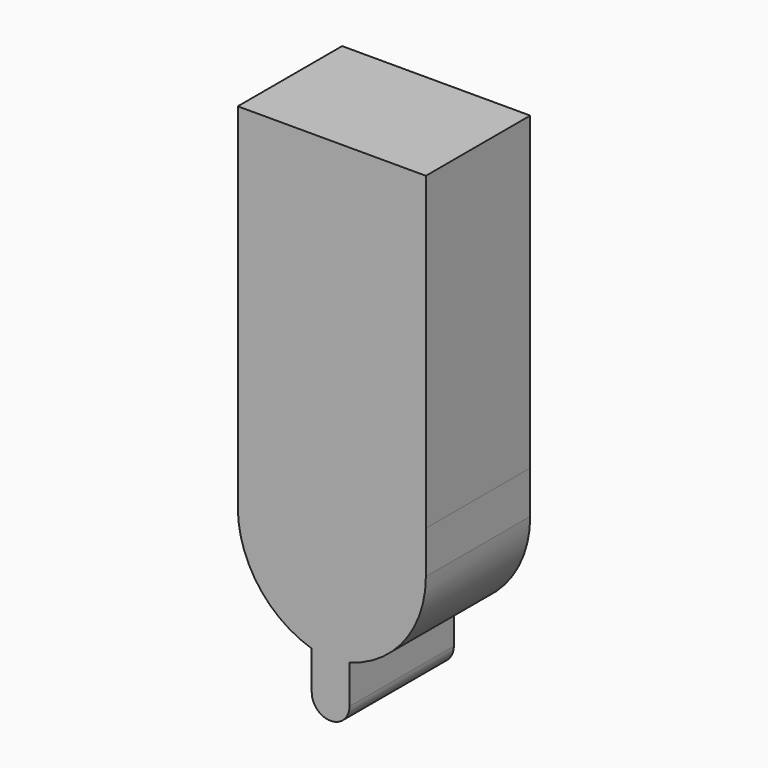
from build123d import *

# Parameters (mm, degrees)
F0_W     = 36.638629
F0_H     = 17.849587
F0_H_2   = 21.920551
F0_H_3   = 20.667945
F1_DEPTH = 25.4


with BuildPart() as f1:
    # F0 (on Front) → F1 (new body)
    with BuildSketch(Plane.XZ):
        with Locations((-3.444659, 59.811782)):
            Rectangle(F0_W, F0_H)
        with Locations((-3.444659, 39.926713)):
            Rectangle(F0_W, F0_H_2)
        with Locations((-3.444659, 18.632465)):
            Rectangle(F0_W, F0_H_3)
        with BuildLine():
            Line((14.874656, 8.298493), (-21.763973, 8.298493))
            Line((-21.763973, 8.298493), (-21.763973, 0))
            ThreePointArc((-21.763973, 0), (-17.774526, -12.150742), (-7.359041, -19.571919))
            Line((-7.359041, -19.571919), (-7.359041, -27.087534))
            Line((-7.359041, -27.087534), (0, -27.087534))
            Line((0, -27.087534), (0, -19.571919))
            ThreePointArc((0, -19.571919), (10.733979, -12.291414), (14.874656, 0))
            Line((14.874656, 0), (14.874656, 8.298493))
        make_face()
        with BuildLine():
            Line((0, -27.087534), (-7.359041, -27.087534))
            ThreePointArc((-7.359041, -27.087534), (-3.67952, -30.767054), (0, -27.087534))
        make_face()
    extrude(amount=F1_DEPTH)


solid = f1.part
